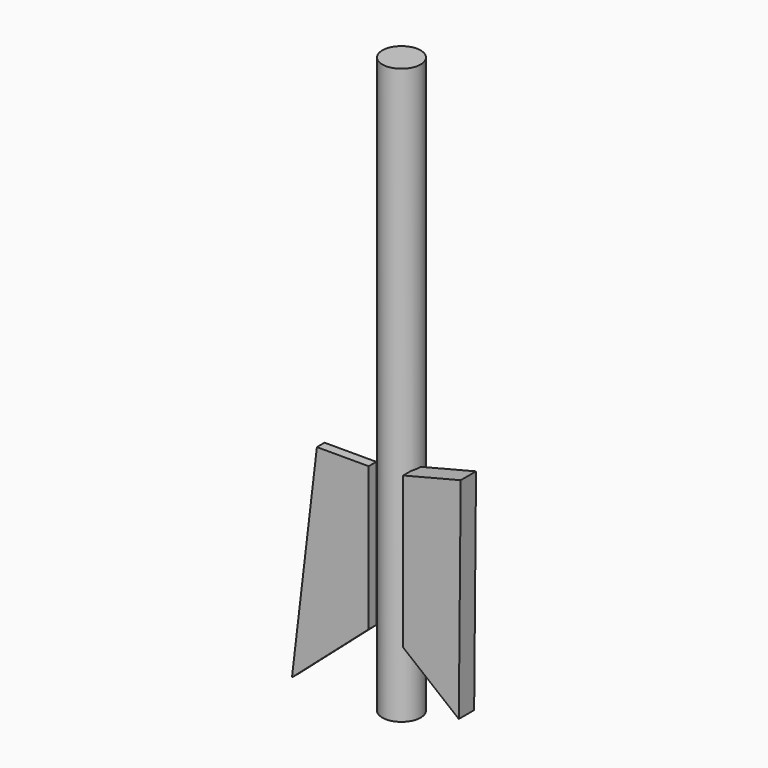
from build123d import *

# Parameters (mm, degrees)
F0_R     = 5
F1_DEPTH = 150
F3_DEPTH = 2.5
F5_DEPTH = 5


with BuildPart() as f1:
    # F0 (on Top) → F1 (new body)
    with BuildSketch(Plane.XY):
        Circle(F0_R)
    extrude(amount=F1_DEPTH)

    # F4 (on Front) → F5 (join)
    with BuildSketch(Plane.XZ):
        Polygon((19.440542, 61.264036), (4.440542, 57.465279), (4.45015, 17.957808), (18.95015, 6.264036), align=None)
    extrude(amount=F5_DEPTH)


with BuildPart() as f3:
    # F2 (on Front) → F3 (new body)
    with BuildSketch(Plane.XZ):
        Polygon((-6.571087, 17.536635), (-6.571087, 55), (-20.071087, 55), (-26.571087, 0), align=None)
    extrude(amount=F3_DEPTH)


solid = Compound([f1.part, f3.part])
